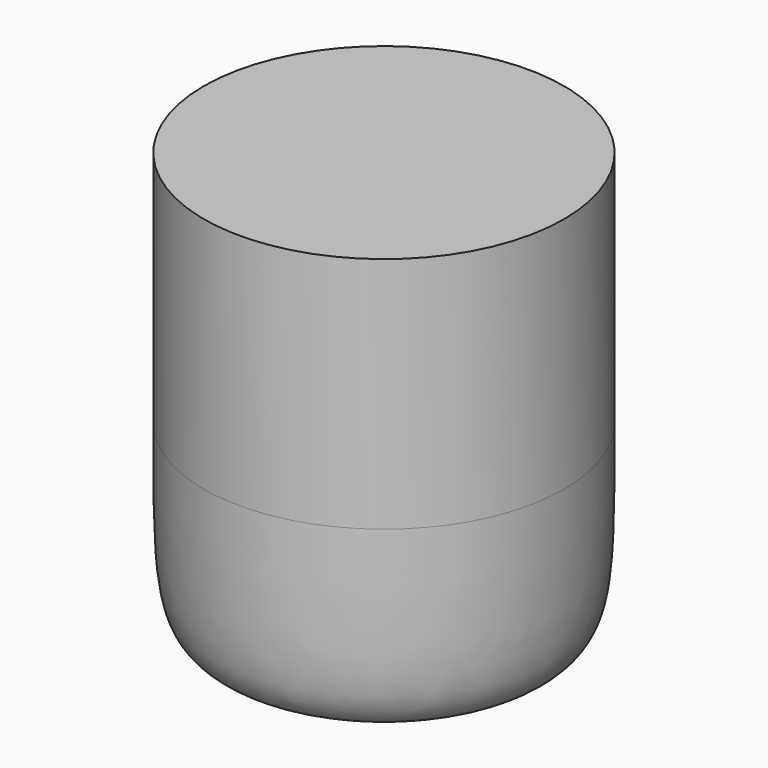
from build123d import *


with BuildPart() as f1:
    # F0 (on Front) → F1 (revolve)
    with BuildSketch(Plane.XZ):
        with BuildLine():
            Line((0, -150), (0, 150))
            Line((0, 150), (-125, 150))
            Line((-125, 150), (-125, 15))
            Line((-125, 15), (-125, -15))
            add(Edge.make_bspline(
                [(-45, -150), (-125, -150), (-125, -150), (-125, -15)],
                knots=[0, 0, 0, 0, 156.923548, 156.923548, 156.923548, 156.923548], degree=3))
            Line((-45, -150), (0, -150))
        make_face()
    revolve(axis=Axis((0, 0, 0), (0, 0, 1)))


solid = f1.part
